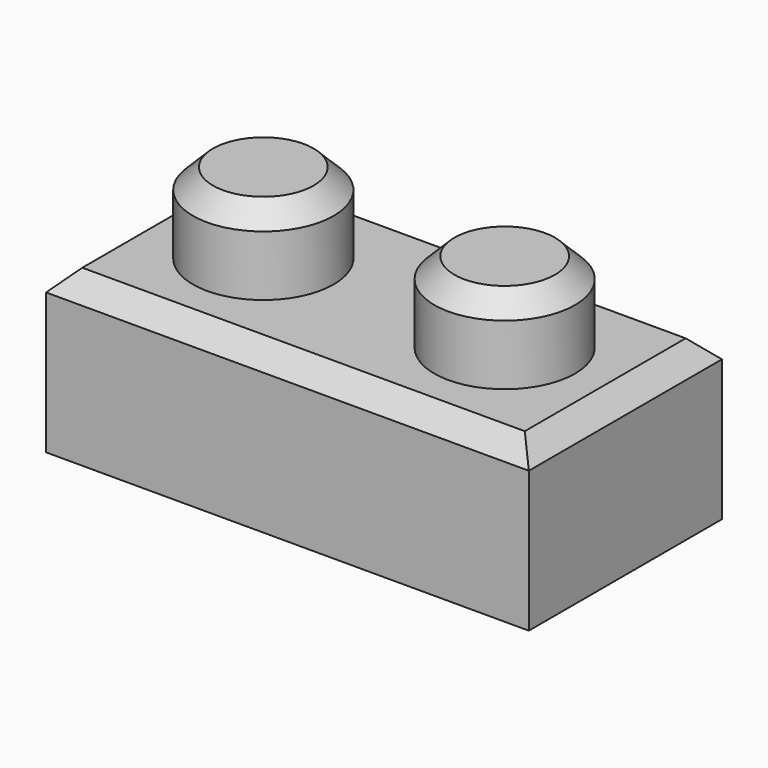
from build123d import *

# Parameters (mm, degrees)
F0_W     = 76.2
F0_H     = 38.1
F1_DEPTH = 25.4
F2_R     = 11.1125
F3_DEPTH = 12.7
F4_T     = -7.9375
F5_SIZE  = 3.175


with BuildPart() as f1:
    # F0 (on Top) → F1 (new body)
    with BuildSketch(Plane.XY):
        with Locations((38.1, 19.05)):
            Rectangle(F0_W, F0_H)
    extrude(amount=F1_DEPTH)

    # F2 (on face) → F3 (join)
    with BuildSketch(Plane.XY.offset(25.4)):
        with Locations((57.15, 19.05)):
            Circle(F2_R)
        with Locations((19.05, 19.05)):
            Circle(F2_R)
    extrude(amount=F3_DEPTH)

    # F4
    f4_openings = [f1.faces().sort_by_distance(p)[0] for p in [
        (38.1, 19.05, 0),
    ]]
    offset(amount=F4_T, openings=f4_openings, kind=Kind.INTERSECTION)

    # F5
    f5_edges = [f1.edges().sort_by_distance(p)[0] for p in [
        (38.1, 0, 25.4),
        (0, 19.05, 25.4),
        (38.1, 38.1, 25.4),
        (7.9375, 19.05, 38.1),
        (46.0375, 19.05, 38.1),
        (76.2, 19.05, 25.4),
    ]]
    chamfer(f5_edges, length=F5_SIZE)


solid = f1.part
